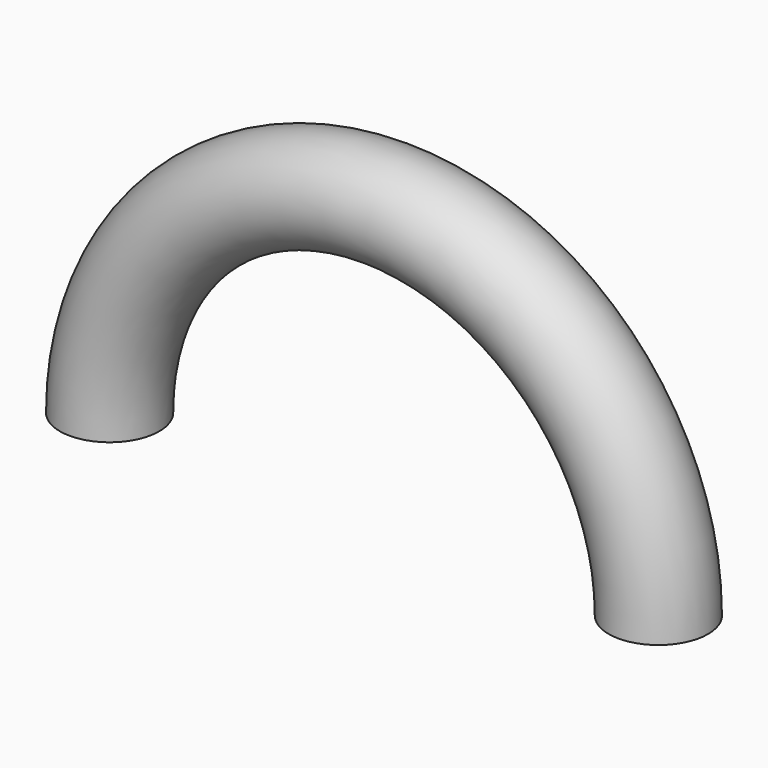
from build123d import *

# Parameters (mm, degrees)
F1_R     = 9.824635
F2_ANGLE = 180


with BuildPart() as f2:
    # F1 (on Top) → F2 (revolve)
    with BuildSketch(Plane.XY):
        with Locations((54.264009, 0)):
            Circle(F1_R)
    revolve(axis=Axis((0, 0, 0), (0, -1, 0)), revolution_arc=F2_ANGLE)


solid = f2.part
